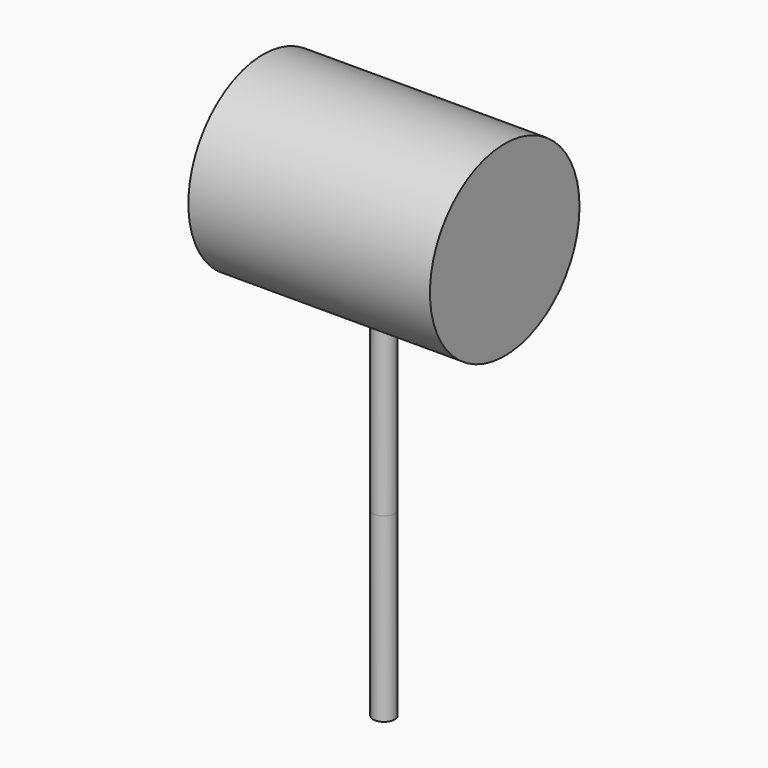
from build123d import *

# Parameters (mm, degrees)
F0_R      = 19.654875
F1_DEPTH  = 25.4
F1_FACE_R = 19.654875
F2_DEPTH  = 25.4
F3_R      = 2.265589
F4_DEPTH  = 50.8
F5_R      = 2.250211
F6_DEPTH  = 38.1


with BuildPart() as f1:
    # F0 (on Right) → F1 (new body)
    with BuildSketch(Plane.YZ):
        with Locations((0, 56.388002)):
            Circle(F0_R)
    extrude(amount=F1_DEPTH)

    # F1_face (on face) → F2 (join)
    with BuildSketch(Plane(origin=(0, 0, 56.388002), x_dir=(0, 1, 0), z_dir=(-1, 0, 0))):
        Circle(F1_FACE_R)
    extrude(amount=F2_DEPTH)

    # F3 (on Top) → F4 (join)
    with BuildSketch(Plane.XY):
        Circle(F3_R)
    extrude(amount=F4_DEPTH)

    # F5 (on Top) → F6 (join)
    with BuildSketch(Plane.XY):
        Circle(F5_R)
    extrude(amount=-F6_DEPTH)


solid = f1.part
